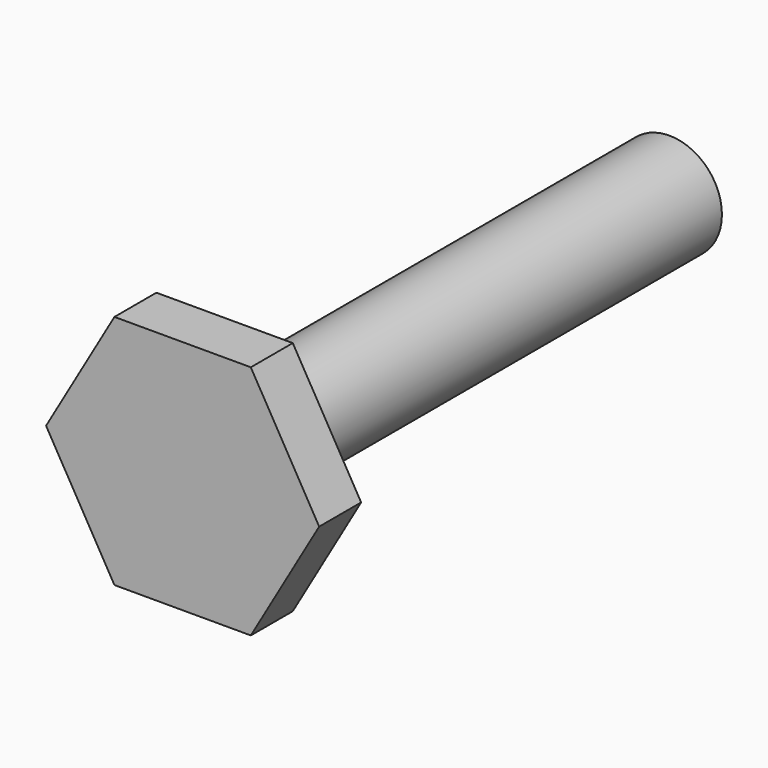
from build123d import *

# Parameters (mm, degrees)
F0_R     = 6.35
F1_DEPTH = 67.31
F3_DEPTH = 6.35


with BuildPart() as f1:
    # F0 (on Front) → F1 (new body)
    with BuildSketch(Plane.XZ):
        Circle(F0_R)
    extrude(amount=-F1_DEPTH)

    # F2 (on face) → F3 (join)
    with BuildSketch(Plane.XZ):
        Polygon((-8.255, 14.2875), (-16.528297, 0), (-8.255, -14.2875), (8.255, -14.2875), (16.528297, 0), (8.255, 14.2875), align=None)
    extrude(amount=F3_DEPTH)


solid = f1.part
